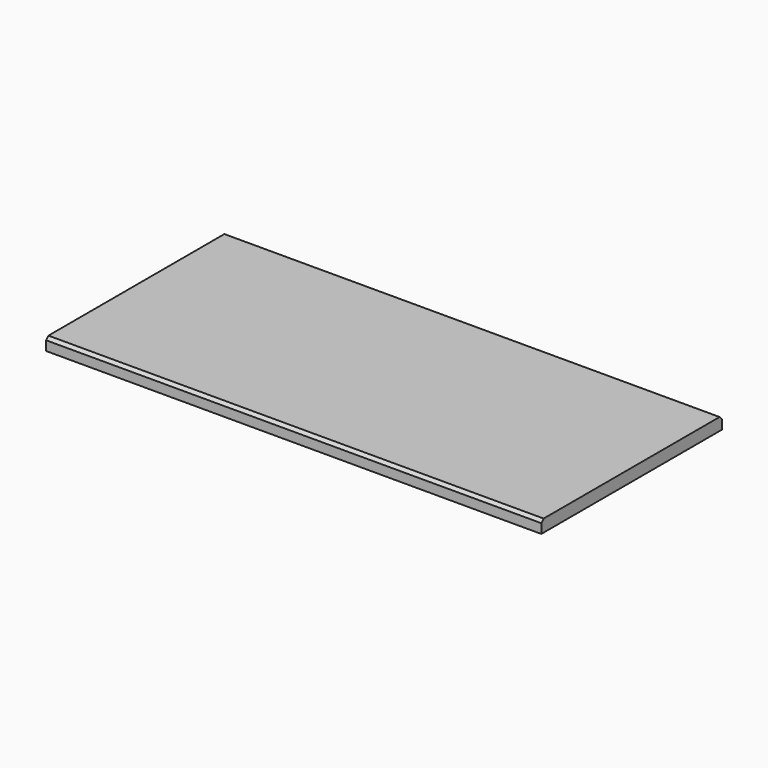
from build123d import *

# Parameters (mm, degrees)
F0_W     = 863.6
F0_H     = 21.59
F1_DEPTH = 393.7
F2_SIZE  = 5.08


with BuildPart() as f1:
    # F0 (on Front) → F1 (new body)
    with BuildSketch(Plane.XZ):
        with Locations((21.803724, -22.227707)):
            Rectangle(F0_W, F0_H)
    extrude(amount=F1_DEPTH)

    # F2
    f2_edges = [f1.edges().sort_by_distance(p)[0] for p in [
        (21.803724, -393.7, -11.432707),
        (21.803724, 0, -11.432707),
    ]]
    chamfer(f2_edges, length=F2_SIZE)


solid = f1.part
